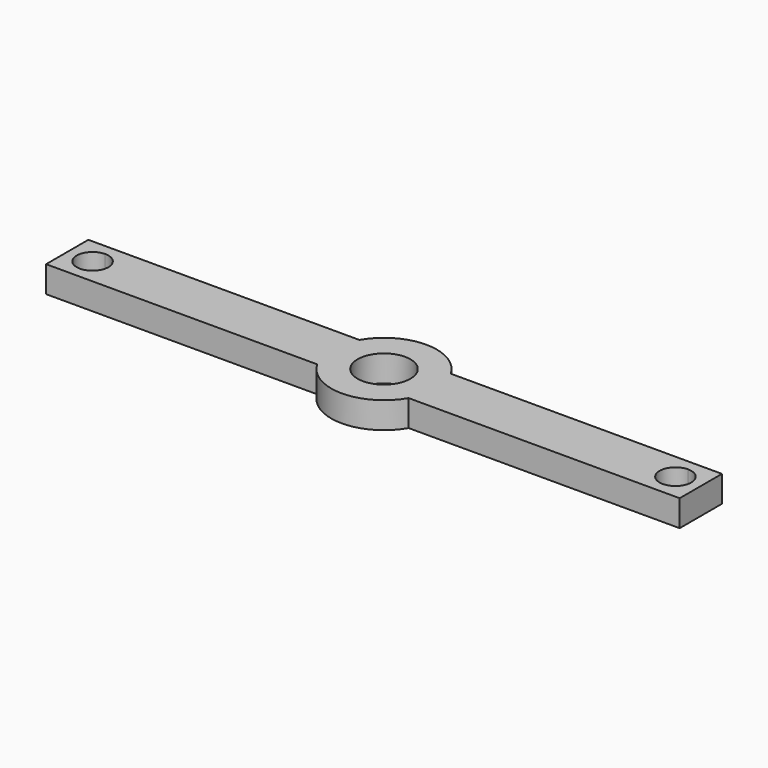
from build123d import *

# Parameters (mm, degrees)
F0_R     = 12.7
F1_DEPTH = 12.7


with BuildPart() as f1:
    # F0 (on Top) → F1 (new body)
    with BuildSketch(Plane.XY):
        with BuildLine():
            Line((152.4, 12.7), (21.997045, 12.7))
            ThreePointArc((21.997045, 12.7), (0, 25.4), (-21.997045, 12.7))
            Line((-21.997045, 12.7), (-152.4, 12.7))
            Line((-152.4, 12.7), (-152.4, 0))
            Line((-152.4, 0), (-152.4, -12.7))
            Line((-152.4, -12.7), (-21.997045, -12.7))
            ThreePointArc((-21.997045, -12.7), (0, -25.4), (21.997045, -12.7))
            Line((21.997045, -12.7), (152.4, -12.7))
            Line((152.4, -12.7), (152.4, 0))
            Line((152.4, 0), (152.4, 12.7))
        make_face()
        with BuildLine():
            ThreePointArc((-140.205994, 7.62), (-134.817841, 5.388154), (-132.585994, 0))
            ThreePointArc((-132.585994, 0), (-145.594148, -5.388154), (-140.205994, 7.62))
        make_face(mode=Mode.SUBTRACT)
        Circle(F0_R, mode=Mode.SUBTRACT)
        with BuildLine():
            ThreePointArc((140.205994, 7.62), (145.594148, 5.388154), (147.825994, 0))
            ThreePointArc((147.825994, 0), (134.817841, -5.388154), (140.205994, 7.62))
        make_face(mode=Mode.SUBTRACT)
    extrude(amount=F1_DEPTH)


solid = f1.part
